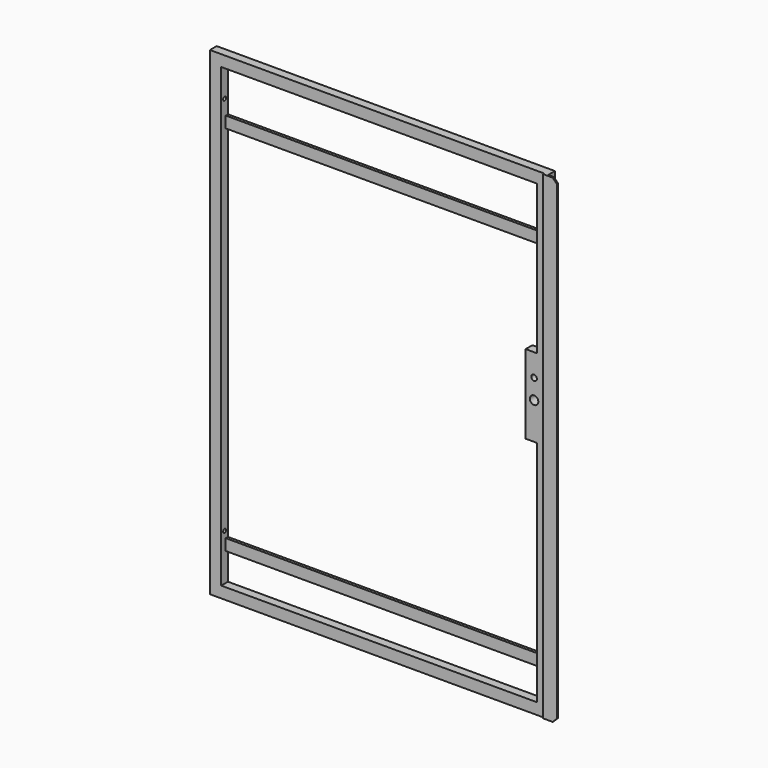
from build123d import *

# Parameters (mm, degrees)
F0_W     = 1200
F0_H     = 1700
F0_R     = 15
F0_R_2   = 10
F1_DEPTH = 15
F2_W     = 1120
F2_H     = 40
F3_DEPTH = 10
F5_D     = 13
F5_DEPTH = 50
F5_TIP   = 3.9055940237
F6_D     = 13
F6_DEPTH = 50
F6_TIP   = 3.9055940237
F7_W     = 50
F7_H     = 1700
F8_DEPTH = 5
F9_SIZE  = 15


with BuildPart() as f1:
    # F0 (on Front) → F1 (new body, symmetric)
    with BuildSketch(Plane.XZ):
        Rectangle(F0_W, F0_H)
        Polygon((-560, -810), (-560, 810), (560, 810), (560, 280), (520, 280), (520, 0), (560, 0), (560, -810), align=None, mode=Mode.SUBTRACT)
        with Locations((550, 130)):
            Circle(F0_R, mode=Mode.SUBTRACT)
        with Locations((550, 200)):
            Circle(F0_R_2, mode=Mode.SUBTRACT)
    extrude(amount=F1_DEPTH, both=True)

    # F2 (on face) → F3 (join)
    with BuildSketch(Plane(origin=(0, 15, 0), x_dir=(-1, 0, 0), z_dir=(0, 1, 0))):
        with Locations((0, 630)):
            Rectangle(F2_W, F2_H)
        with Locations((0, -690)):
            Rectangle(F2_W, F2_H)
    extrude(amount=-F3_DEPTH)

    # F5
    with Locations(Plane(origin=(-600, 0, 0), x_dir=(0, -1, 0), z_dir=(-1, 0, 0))):
        with Locations((0, -645)):
            Hole(F5_D / 2, depth=F5_DEPTH)
            with Locations((0, 0, -(F5_DEPTH + F5_TIP / 2))):  # 118° drill point
                Cone(0, F5_D / 2, F5_TIP, mode=Mode.SUBTRACT)

    # F6
    with Locations(Plane(origin=(-600, 0, 0), x_dir=(0, -1, 0), z_dir=(-1, 0, 0))):
        with Locations((0, 705)):
            Hole(F6_D / 2, depth=F6_DEPTH)
            with Locations((0, 0, -(F6_DEPTH + F6_TIP / 2))):  # 118° drill point
                Cone(0, F6_D / 2, F6_TIP, mode=Mode.SUBTRACT)

    # F7 (on face) → F8 (join)
    with BuildSketch(Plane.XZ.offset(15)):
        with Locations((610, 0)):
            Rectangle(F7_W, F7_H)
    extrude(amount=F8_DEPTH)

    # F9
    f9_edges = [f1.edges().sort_by_distance(p)[0] for p in [
        (635, -17.5, -850),
        (635, -17.5, 850),
    ]]
    chamfer(f9_edges, length=F9_SIZE)


solid = f1.part
